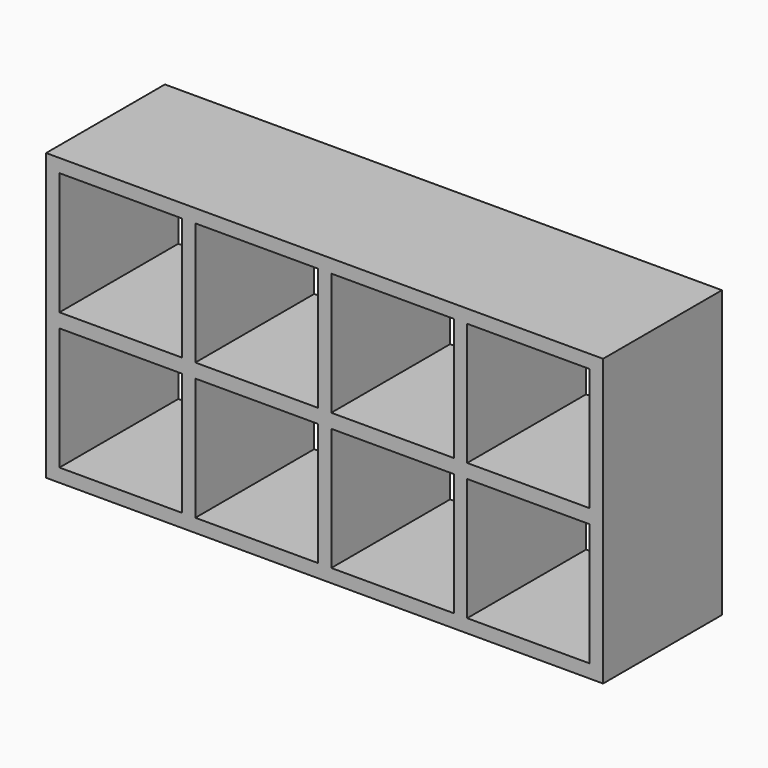
from build123d import *

# Parameters (mm, degrees)
F0_W     = 1500
F0_H     = 770
F0_W_2   = 330
F0_H_2   = 330
F1_DEPTH = 400


with BuildPart() as f1:
    # F0 (on Front) → F1 (new body)
    with BuildSketch(Plane.XZ):
        with Locations((750, -385)):
            Rectangle(F0_W, F0_H)
        with Locations((201, -569)):
            Rectangle(F0_W_2, F0_H_2, mode=Mode.SUBTRACT)
        with Locations((567, -569)):
            Rectangle(F0_W_2, F0_H_2, mode=Mode.SUBTRACT)
        with Locations((933, -569)):
            Rectangle(F0_W_2, F0_H_2, mode=Mode.SUBTRACT)
        with Locations((1299, -569)):
            Rectangle(F0_W_2, F0_H_2, mode=Mode.SUBTRACT)
        with Locations((201, -201)):
            Rectangle(F0_W_2, F0_H_2, mode=Mode.SUBTRACT)
        with Locations((567, -201)):
            Rectangle(F0_W_2, F0_H_2, mode=Mode.SUBTRACT)
        with Locations((933, -201)):
            Rectangle(F0_W_2, F0_H_2, mode=Mode.SUBTRACT)
        with Locations((1299, -201)):
            Rectangle(F0_W_2, F0_H_2, mode=Mode.SUBTRACT)
    extrude(amount=F1_DEPTH)


solid = f1.part
